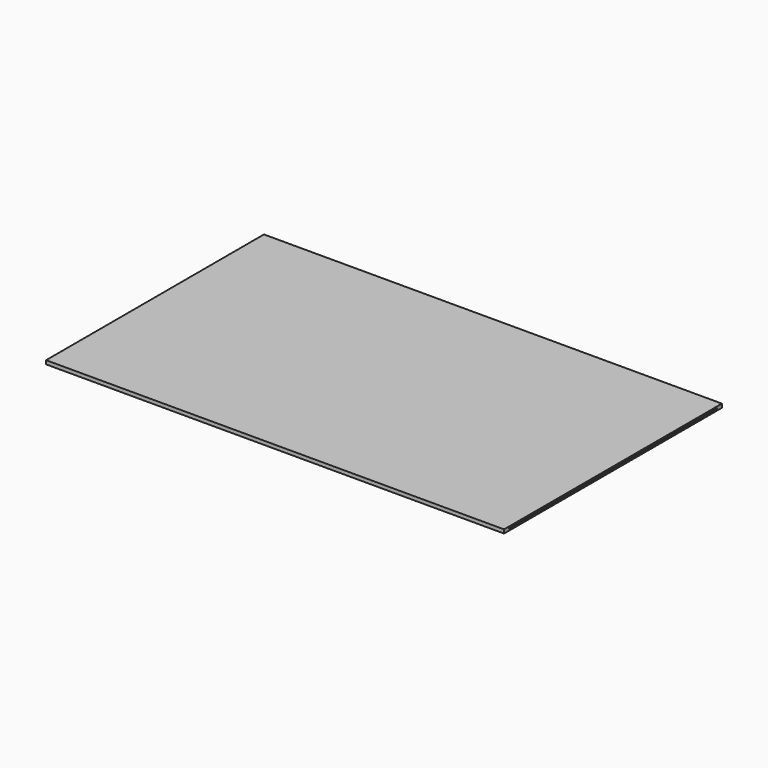
from build123d import *

# Parameters (mm, degrees)
F0_W     = 93.98
F0_H     = 55.88
F1_DEPTH = 0.254
F3_DEPTH = 0.254
F5_DEPTH = 0.254


with BuildPart() as f1:
    # F0 (on Top) → F1 (new body)
    with BuildSketch(Plane.XY):
        with Locations((-3.283079, -18.023962)):
            Rectangle(F0_W, F0_H)
    extrude(amount=F1_DEPTH)

    # F2 (on face) → F3 (join)
    with BuildSketch(Plane.XY.offset(0.254)):
        Polygon((43.706921, 9.916038), (-50.273079, 9.916038), (-50.273079, -45.963962), (43.706921, -45.963962), (43.706921, -44.693962), (-49.003079, -44.693962), (-49.003079, 8.646038), (43.706921, 8.646038), align=None)
    extrude(amount=F3_DEPTH)

    # F4 (on face) → F5 (join)
    with BuildSketch(Plane.XY.offset(0.508)):
        Polygon((-50.273079, 9.916038), (-50.273079, -45.963962), (43.706921, -45.963962), (43.706921, -44.693962), (43.706921, 8.646038), (43.706921, 9.916038), align=None)
    extrude(amount=F5_DEPTH)


solid = f1.part
